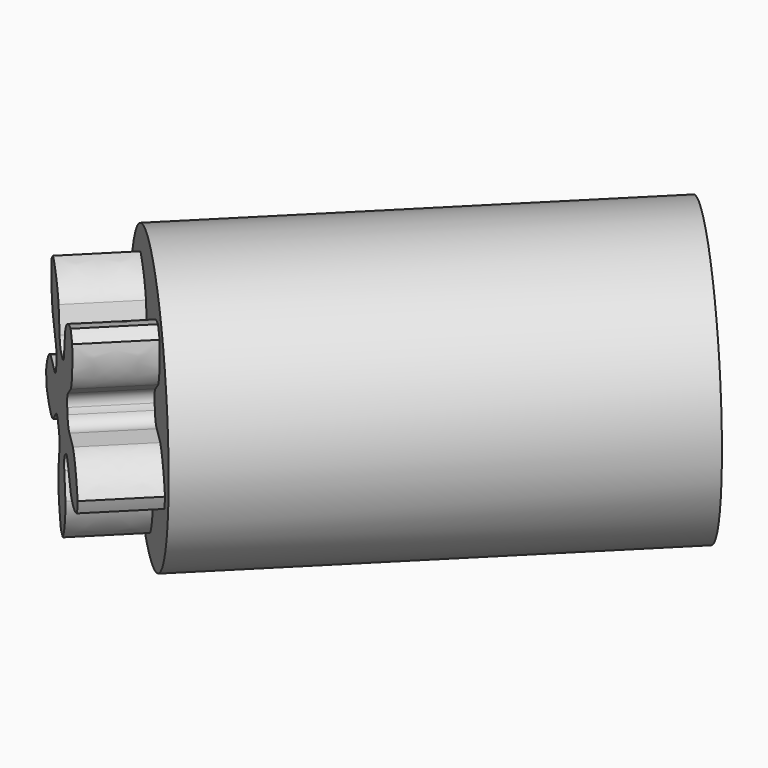
from build123d import *

# Parameters (mm, degrees)
PAD038_DEPTH            = 1.5
SKETCH056_R             = 3
PAD039_DEPTH            = 1.5
SKETCH057_R             = 3
SKETCH057_R_2           = 2.1
PAD040_DEPTH            = 8
BODY022_PITCH_ANGLE     = 90
BODY022_PLACEMENT_ANGLE = -135


with BuildPart() as part:
    # InvoluteGear007 → Pad038 (new body)
    with BuildSketch(Plane.XY):
        with BuildLine():
            Line((1.110631, -0.379257), (1.611002, -0.549274))
            add(Edge.make_bspline(
                [(1.611002, -0.549274), (1.657084, -0.555348), (1.841436, -0.576411), (2.183492, -0.491872), (2.515793, -0.147021)],
                knots=[0, 0, 0, 0, 0, 1, 1, 1, 1, 1], degree=4))
            ThreePointArc((2.515793, -0.147021), (2.520042, 0.0016), (2.515519, 0.150213))
            add(Edge.make_bspline(
                [(2.515519, 0.150213), (2.183492, 0.491872), (1.841436, 0.576411), (1.657084, 0.555348), (1.611002, 0.549274)],
                knots=[0, 0, 0, 0, 0, 1, 1, 1, 1, 1], degree=4))
            Line((1.611002, 0.549274), (1.110631, 0.379257))
            ThreePointArc((1.110631, 0.379257), (0.918725, 0.36265), (0.763436, 0.476619))
            ThreePointArc((0.763436, 0.476619), (0.728115, 0.529007), (0.689206, 0.578787))
            ThreePointArc((0.689206, 0.578787), (0.628802, 0.761694), (0.703899, 0.939076))
            Line((0.703899, 0.939076), (1.020218, 1.362419))
            add(Edge.make_bspline(
                [(1.020218, 1.362419), (1.040234, 1.404369), (1.117234, 1.573189), (1.142534, 1.924628), (0.917248, 2.34723)],
                knots=[0, 0, 0, 0, 0, 1, 1, 1, 1, 1], degree=4))
            ThreePointArc((0.917248, 2.34723), (0.777214, 2.397197), (0.634477, 2.438819))
            add(Edge.make_bspline(
                [(0.634477, 2.438819), (0.206938, 2.228621), (0.020836, 1.92943), (-0.0161, 1.747593), (-0.024564, 1.701889)],
                knots=[0, 0, 0, 0, 0, 1, 1, 1, 1, 1], degree=4))
            Line((-0.024564, 1.701889), (-0.017491, 1.17347))
            ThreePointArc((-0.017491, 1.17347), (-0.060999, 0.985824), (-0.217377, 0.873354))
            ThreePointArc((-0.217377, 0.873354), (-0.278115, 0.855951), (-0.337483, 0.834329))
            ThreePointArc((-0.337483, 0.834329), (-0.530104, 0.833403), (-0.675598, 0.959638))
            Line((-0.675598, 0.959638), (-0.980473, 1.391296))
            add(Edge.make_bspline(
                [(-0.980473, 1.391296), (-1.014184, 1.423295), (-1.150947, 1.548695), (-1.477367, 1.681357), (-1.948903, 1.597689)],
                knots=[0, 0, 0, 0, 0, 1, 1, 1, 1, 1], degree=4))
            ThreePointArc((-1.948903, 1.597689), (-2.039698, 1.479949), (-2.123391, 1.35706))
            add(Edge.make_bspline(
                [(-2.123391, 1.35706), (-2.055597, 0.885492), (-1.828559, 0.616043), (-1.667035, 0.524724), (-1.626183, 0.502551)],
                knots=[0, 0, 0, 0, 0, 1, 1, 1, 1, 1], degree=4))
            Line((-1.626183, 0.502551), (-1.121441, 0.345987))
            ThreePointArc((-1.121441, 0.345987), (-0.956425, 0.246623), (-0.897782, 0.063143))
            ThreePointArc((-0.897782, 0.063143), (-0.9, 0), (-0.897782, -0.063143))
            ThreePointArc((-0.897782, -0.063143), (-0.956425, -0.246623), (-1.121441, -0.345987))
            Line((-1.121441, -0.345987), (-1.626183, -0.502551))
            add(Edge.make_bspline(
                [(-1.626183, -0.502551), (-1.667035, -0.524724), (-1.828559, -0.616043), (-2.055597, -0.885492), (-2.121736, -1.359804)],
                knots=[0, 0, 0, 0, 0, 1, 1, 1, 1, 1], degree=4))
            ThreePointArc((-2.121736, -1.359804), (-2.037816, -1.482538), (-1.946804, -1.60011))
            add(Edge.make_bspline(
                [(-1.946804, -1.60011), (-1.477367, -1.681357), (-1.150947, -1.548695), (-1.014184, -1.423295), (-0.980473, -1.391296)],
                knots=[0, 0, 0, 0, 0, 1, 1, 1, 1, 1], degree=4))
            Line((-0.980473, -1.391296), (-0.675598, -0.959638))
            ThreePointArc((-0.675598, -0.959638), (-0.530104, -0.833403), (-0.337483, -0.834329))
            ThreePointArc((-0.337483, -0.834329), (-0.278115, -0.855951), (-0.217377, -0.873354))
            ThreePointArc((-0.217377, -0.873354), (-0.060999, -0.985824), (-0.017491, -1.17347))
            Line((-0.017491, -1.17347), (-0.024564, -1.701889))
            add(Edge.make_bspline(
                [(-0.024564, -1.701889), (-0.0161, -1.747593), (0.020836, -1.92943), (0.206938, -2.228621), (0.637598, -2.438094)],
                knots=[0, 0, 0, 0, 0, 1, 1, 1, 1, 1], degree=4))
            ThreePointArc((0.637598, -2.438094), (0.780258, -2.396208), (0.9202, -2.345982))
            add(Edge.make_bspline(
                [(0.9202, -2.345982), (1.142534, -1.924628), (1.117234, -1.573189), (1.040234, -1.404369), (1.020218, -1.362419)],
                knots=[0, 0, 0, 0, 0, 1, 1, 1, 1, 1], degree=4))
            Line((1.020218, -1.362419), (0.703899, -0.939076))
            ThreePointArc((0.703899, -0.939076), (0.628802, -0.761694), (0.689206, -0.578787))
            ThreePointArc((0.689206, -0.578787), (0.728115, -0.529007), (0.763436, -0.476619))
            ThreePointArc((0.763436, -0.476619), (0.918725, -0.36265), (1.110631, -0.379257))
        make_face()
    extrude(amount=PAD038_DEPTH)

    # Sketch056 (on Face41 of Pad038) → Pad039 (join)
    with BuildSketch(Plane(origin=(0, 0, 0), x_dir=(1, 0, 0), z_dir=(0, 0, -1))):
        Circle(SKETCH056_R)
    extrude(amount=PAD039_DEPTH)

    # Sketch057 (on Face3 of Pad039) → Pad040 (join)
    with BuildSketch(Plane(origin=(0, 0, -1.5), x_dir=(1, 0, 0), z_dir=(0, 0, -1))):
        Circle(SKETCH057_R)
        Circle(SKETCH057_R_2, mode=Mode.SUBTRACT)
    extrude(amount=PAD040_DEPTH)


with BuildPart() as part_1:
    # Body022 pitch: moved
    add(part.part.rotate(Axis((0, 0, 0), (0, 1, 0)), BODY022_PITCH_ANGLE))


with BuildPart() as part_2:
    # Body022 placement: moved
    add(part_1.part.moved(Location((-50, -43, 0))).rotate(Axis((-50, -43, 0), (0, 0, 1)), BODY022_PLACEMENT_ANGLE))


solid = part_2.part
